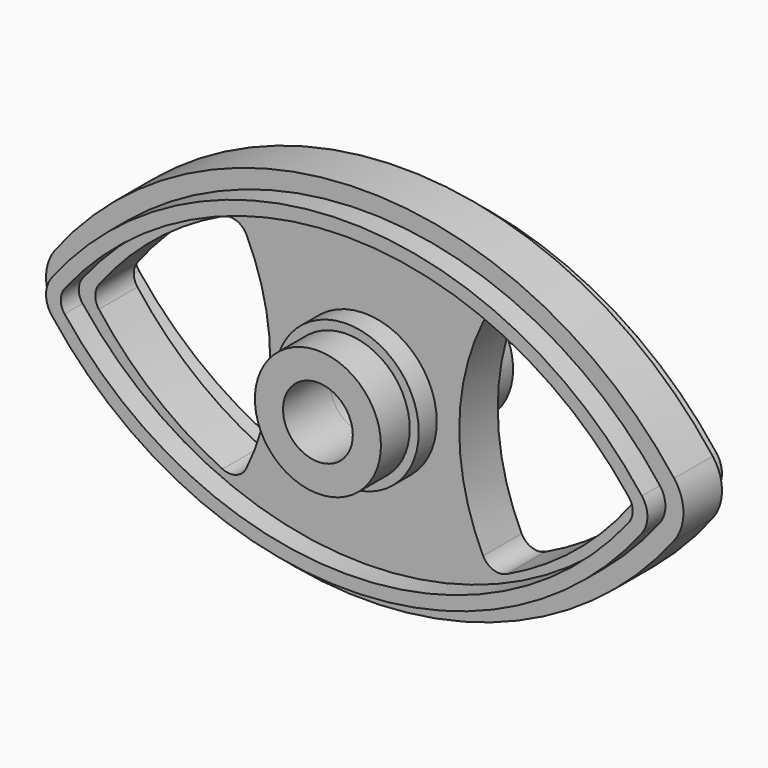
from build123d import *

# Parameters (mm, degrees)
F0_R     = 3.875
F1_DEPTH = 2.675
F2_R     = 2
F3_R     = 8
F3_R_2   = 3.875
F4_DEPTH = 2.5
F5_R     = 2
F6_R     = 7
F6_R_2   = 3.875
F7_DEPTH = 4


with BuildPart() as f1:
    # F0 (on Front) → F1 (new body, symmetric)
    with BuildSketch(Plane.XZ):
        with BuildLine():
            ThreePointArc((34.3685322209, -3.0420949584), (35.4004522993, 0), (34.3685322209, 3.0420949584))
            ThreePointArc((34.3685322209, 3.0420949584), (0, 20), (-34.3685322209, 3.0420949584))
            ThreePointArc((-34.3685322209, 3.0420949584), (-35.4004522993, 0), (-34.3685322209, -3.0420949584))
            ThreePointArc((-34.3685322209, -3.0420949584), (0, -20), (34.3685322209, -3.0420949584))
        make_face()
        with BuildLine():
            ThreePointArc((-30.4004522993, 0), (-23.1775008297, 7.7461532708), (-14.0563482176, 13.129320875))
            ThreePointArc((-14.0563482176, 13.129320875), (-10.4981429131, 0), (-14.0563482176, -13.129320875))
            ThreePointArc((-14.0563482176, -13.129320875), (-23.1775008297, -7.7461532708), (-30.4004522993, 0))
        make_face(mode=Mode.SUBTRACT)
        Circle(F0_R, mode=Mode.SUBTRACT)
        with BuildLine():
            ThreePointArc((14.0563482176, 13.129320875), (23.1775008297, 7.7461532708), (30.4004522993, 0))
            ThreePointArc((30.4004522993, 0), (23.1775008297, -7.7461532708), (14.0563482176, -13.129320875))
            ThreePointArc((14.0563482176, -13.129320875), (10.4981429131, 0), (14.0563482176, 13.129320875))
        make_face(mode=Mode.SUBTRACT)
    extrude(amount=F1_DEPTH, both=True)

    # F2
    f2_edges = [f1.edges().sort_by_distance(p)[0] for p in [
        (-14.056348, 0, 13.129321),
        (-30.400452, 0, 0),
        (-14.056348, 0, -13.129321),
        (14.056348, 0, 13.129321),
        (30.400452, 0, 0),
        (14.056348, 0, -13.129321),
    ]]
    fillet(f2_edges, radius=F2_R)

    # F3 (on face) → F4 (join)
    with BuildSketch(Plane.XZ.offset(2.675)):
        with BuildLine():
            ThreePointArc((32.7813002522, -1.825256975), (33.4004522993, 0), (32.7813002522, 1.825256975))
            ThreePointArc((32.7813002522, 1.825256975), (0, 18), (-32.7813002522, 1.825256975))
            ThreePointArc((-32.7813002522, 1.825256975), (-33.4004522993, 0), (-32.7813002522, -1.825256975))
            ThreePointArc((-32.7813002522, -1.825256975), (0, -18), (32.7813002522, -1.825256975))
        make_face()
        with BuildLine():
            ThreePointArc((-32.2700519058, 0), (0, 16.5), (32.2700519058, 0))
            ThreePointArc((32.2700519058, 0), (0, -16.5), (-32.2700519058, 0))
        make_face(mode=Mode.SUBTRACT)
        Circle(F3_R)
        Circle(F3_R_2, mode=Mode.SUBTRACT)
    extrude(amount=F4_DEPTH)

    # F5
    f5_edges = [f1.edges().sort_by_distance(p)[0] for p in [
        (-32.270052, -3.925, 0),
        (32.270052, -3.925, 0),
    ]]
    fillet(f5_edges, radius=F5_R)

    # F6 (on face) → F7 (join)
    with BuildSketch(Plane.XZ.offset(5.175)):
        Circle(F6_R)
        Circle(F6_R_2, mode=Mode.SUBTRACT)
    extrude(amount=F7_DEPTH)

    # F8: F1 across plane


with BuildPart() as f1_1:
    add(f1.part)
    add(f1.part.mirror(Plane.XZ))


solid = f1_1.part
